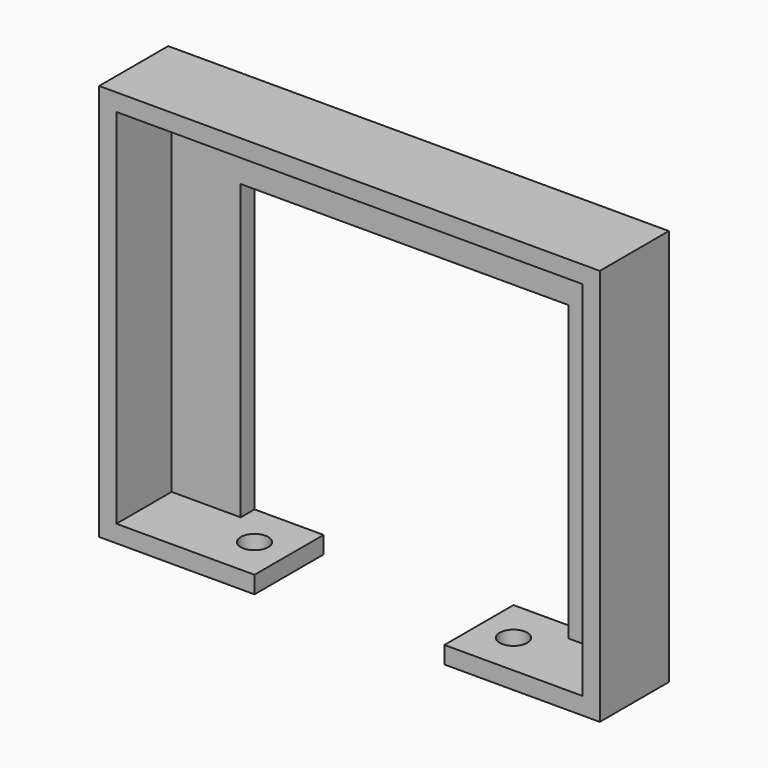
from build123d import *

# Parameters (mm, degrees)
F0_W      = 25
F0_H      = 115
F1_DEPTH  = 5
F2_W      = 25
F2_H      = 5
F3_DEPTH  = 140
F4_W      = 5
F4_H      = 25
F5_DEPTH  = 110
F6_W      = 25
F6_H      = 5
F7_DEPTH  = 40
F8_W      = 25
F8_H      = 5
F9_DEPTH  = 40
F10_W     = 5
F10_H     = 105
F11_DEPTH = 20
F12_W     = 5
F12_H     = 105
F13_DEPTH = 20
F14_W     = 5
F14_H     = 20
F15_DEPTH = 97.6
F17_R     = 4
F18_DEPTH = 25
F19_R     = 4
F20_DEPTH = 15
F21_DEPTH = 25
F22_DEPTH = 25


with BuildPart() as f1:
    # F0 (on Right) → F1 (new body)
    with BuildSketch(Plane.YZ):
        Rectangle(F0_W, F0_H)
    extrude(amount=F1_DEPTH)

    # F2 (on face) → F3 (join)
    with BuildSketch(Plane(origin=(0, 0, 0), x_dir=(0, -1, 0), z_dir=(-1, 0, 0))):
        with Locations((0, 55)):
            Rectangle(F2_W, F2_H)
    extrude(amount=F3_DEPTH)

    # F4 (on face) → F5 (join)
    with BuildSketch(Plane(origin=(0, 0, 52.5), x_dir=(1, 0, 0), z_dir=(0, 0, -1))):
        with Locations((-137.5, 0)):
            Rectangle(F4_W, F4_H)
    extrude(amount=F5_DEPTH)

    # F6 (on face) → F7 (join)
    with BuildSketch(Plane.YZ.offset(-135)):
        with Locations((0, -55)):
            Rectangle(F6_W, F6_H)
    extrude(amount=F7_DEPTH)

    # F8 (on face) → F9 (join)
    with BuildSketch(Plane(origin=(0, 0, 0), x_dir=(0, -1, 0), z_dir=(-1, 0, 0))):
        with Locations((0, -55)):
            Rectangle(F8_W, F8_H)
    extrude(amount=F9_DEPTH)

    # F10 (on face) → F11 (join)
    with BuildSketch(Plane.YZ.offset(-135)):
        with Locations((10, 0)):
            Rectangle(F10_W, F10_H)
    extrude(amount=F11_DEPTH)

    # F12 (on face) → F13 (join)
    with BuildSketch(Plane(origin=(0, 0, 0), x_dir=(0, -1, 0), z_dir=(-1, 0, 0))):
        with Locations((-10, 0)):
            Rectangle(F12_W, F12_H)
    extrude(amount=F13_DEPTH)

    # F14 (on face) → F15 (join)
    with BuildSketch(Plane(origin=(-20, 0, 0), x_dir=(0, -1, 0), z_dir=(-1, 0, 0))):
        with Locations((-10, 42.5)):
            Rectangle(F14_W, F14_H)
    extrude(amount=F15_DEPTH)

    # F17 (on face) → F18 (cut)
    with BuildSketch(Plane.XY.offset(-52.5)):
        with Locations((-105, 0)):
            Circle(F17_R)
    extrude(amount=-F18_DEPTH, mode=Mode.SUBTRACT)

    # F19 (on face) → F20 (cut)
    with BuildSketch(Plane.XY.offset(-52.5)):
        with Locations((-30, 0)):
            Circle(F19_R)
    extrude(amount=-F20_DEPTH, mode=Mode.SUBTRACT)

    # F17 (on face) → F21 (cut)
    with BuildSketch(Plane.XY.offset(-52.5)):
        with Locations((-105, 0)):
            Circle(F17_R)
    extrude(amount=-F21_DEPTH, mode=Mode.SUBTRACT)

    # F19 (on face) → F22 (cut)
    with BuildSketch(Plane.XY.offset(-52.5)):
        with Locations((-30, 0)):
            Circle(F19_R)
    extrude(amount=-F22_DEPTH, mode=Mode.SUBTRACT)


solid = f1.part
